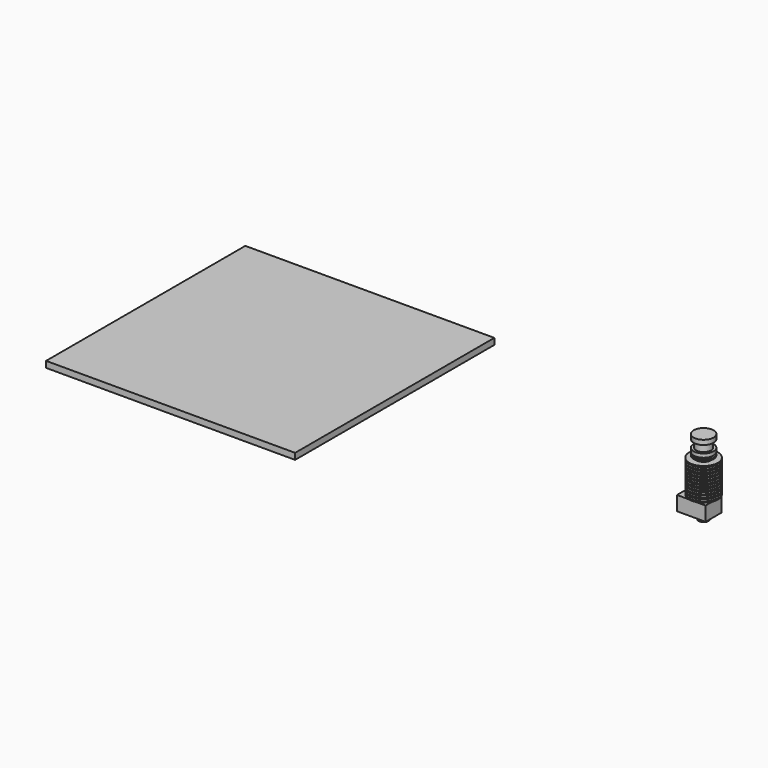
from build123d import *

# Parameters (mm, degrees)
F2_W     = 200
F2_H     = 200
F3_DEPTH = 5
F6_DEPTH = 11.5
F7_W     = 0.01
F7_H     = 0.01
F8_DEPTH = 0.01


with BuildPart() as f1:
    # F0 (on Front) → F1 (revolve)
    with BuildSketch(Plane.XZ):
        Polygon((-119.29929322, 65.8025058679), (-127.29929322, 65.8025058679), (-127.29929322, 23.1025807939), (-127.29929322, 21.0025807939), (-127.29929322, 16.0025807939), (-127.29929322, 5.5025807939), (-127.29929322, 3.5115100909), (-127.2838272239, 3.5115100909), (-123.8351916049, 5.5025807939), (-123.29929322, 5.5025807939), (-123.29929322, 8.5025807939), (-123.8351916049, 8.5025807939), (-123.8351916049, 16.0025807939), (-124.8351916049, 16.0025807939), (-124.8351916049, 21.0025807939), (-125.2563148737, 21.0025807939), (-125.2563148737, 23.1025552818), (-121.29929322, 23.1025058679), (-115.79929322, 23.1025058679), (-115.79929322, 24.1025058679), (-121.29929322, 24.1025058679), (-121.29929322, 25.6025058679), (-115.79929322, 25.6025058679), (-115.79929322, 26.6025058679), (-121.29929322, 26.6025058679), (-121.29929322, 28.1025058679), (-115.79929322, 28.1025058679), (-115.79929322, 29.1025058679), (-121.29929322, 29.1025058679), (-121.29929322, 30.6025058679), (-115.79929322, 30.6025058679), (-115.79929322, 31.6025058679), (-121.29929322, 31.6025058679), (-121.29929322, 33.1025058679), (-115.79929322, 33.1025058679), (-115.79929322, 34.1025058679), (-121.29929322, 34.1025058679), (-121.29929322, 35.6025058679), (-115.79929322, 35.6025058679), (-115.79929322, 36.6025058679), (-121.29929322, 36.6025058679), (-121.29929322, 38.1025058679), (-115.79929322, 38.1025058679), (-115.79929322, 39.1025058679), (-121.29929322, 39.1025058679), (-121.29929322, 40.6025058679), (-115.79929322, 40.6025058679), (-115.79929322, 41.6025058679), (-121.29929322, 41.6025058679), (-121.29929322, 43.1025058679), (-115.79929322, 43.1025058679), (-115.79929322, 44.1025058679), (-121.29929322, 44.1025058679), (-121.29929322, 45.6025058679), (-115.79929322, 45.6025058679), (-115.79929322, 46.6025058679), (-121.29929322, 46.6025058679), (-121.29929322, 48.1025058679), (-115.79929322, 48.1025058679), (-115.79929322, 49.1025058679), (-121.29929322, 49.1025058679), (-121.29929322, 50.6025058679), (-119.29929322, 50.6025058679), (-119.29929322, 51.6025058679), (-121.29929322, 51.6025058679), (-121.29929322, 53.1025058679), (-119.29929322, 53.1025058679), (-119.29929322, 56.1025058679), (-121.29929322, 56.1025058679), (-121.29929322, 62.1025058679), (-119.29929322, 62.1025058679), align=None)
    revolve(axis=Axis((-127.29929322, 0, 44.4525433309), (0, 0, -1)))

    # F5 (on offset) → F6 (join)
    with BuildSketch(Plane.XY.offset(21.0025807939)):
        Polygon((-142.29929322, 8), (-142.29929322, -8), (-119.29929322, -8), (-119.29929322, 0), (-119.29929322, 8), align=None)
    extrude(amount=-F6_DEPTH)

    # F7 (on face) → F8 (join)
    with BuildSketch(Plane(origin=(0, 0, 3.5115100909), x_dir=(1, 0, 0), z_dir=(0, 0, -1))):
        with Locations((-127.29929322, 0)):
            Rectangle(F7_W, F7_H)
    extrude(amount=F8_DEPTH)


with BuildPart() as f3:
    # F2 (on Top) → F3 (new body)
    with BuildSketch(Plane.XY):
        with Locations((-484.2577129602, 11.0983447434)):
            Rectangle(F2_W, F2_H)
    extrude(amount=F3_DEPTH)


solid = Compound([f1.part, f3.part])
